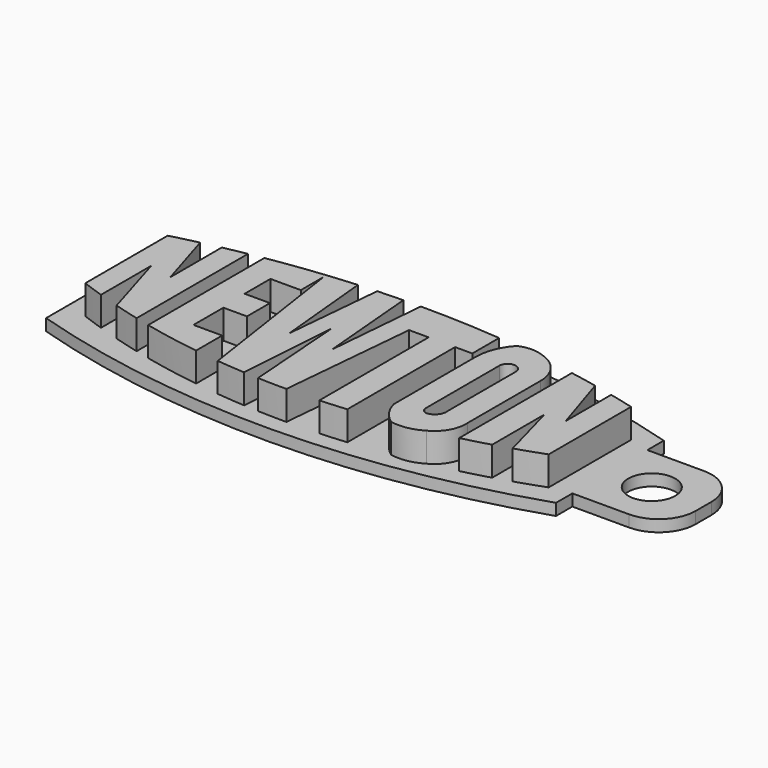
from build123d import *

# Parameters (mm, degrees)
F1_DEPTH = 5
F3_DEPTH = 2
F5_R     = 4.0386
F6_DEPTH = 2


with BuildPart() as f1:
    # F0 (on Top) → F1 (new body)
    with BuildSketch(Plane.XY):
        with BuildLine():
            ThreePointArc((-26.651348, 17.408332), (-28.98701, 16.85103), (-31.313855, 16.257994))
            Line((-31.313855, 16.257994), (-31.313855, -1.454417))
            ThreePointArc((-31.313855, -1.454417), (-29.445548, -2.127472), (-27.565881, -2.768118))
            Line((-27.565881, -2.768118), (-27.565881, 8.0386))
            Line((-27.565881, 8.0386), (-23.981268, -3.890644))
            ThreePointArc((-23.981268, -3.890644), (-21.785328, -4.515397), (-19.577401, -5.096367))
            Line((-19.577401, -5.096367), (-19.580996, 18.867471))
            ThreePointArc((-19.580996, 18.867471), (-21.536505, 18.497823), (-23.48716, 18.103362))
            Line((-23.48716, 18.103362), (-23.48716, 7.049417))
            Line((-23.48716, 7.049417), (-26.651348, 17.408332))
        make_face()
        with BuildLine():
            Line((48.388597, -1.454417), (48.388597, 16.257994))
            ThreePointArc((48.388597, 16.257994), (46.258605, 16.802327), (44.121183, 17.316716))
            Line((44.121183, 17.316716), (44.121183, 7.543997))
            Line((44.121183, 7.543997), (40.767098, 18.060365))
            ThreePointArc((40.767098, 18.060365), (38.40477, 18.538069), (36.035373, 18.979372))
            Line((36.035373, 18.979372), (36.035373, -5.250303))
            ThreePointArc((36.035373, -5.250303), (38.374392, -4.647226), (40.700207, -3.995081))
            Line((40.700207, -3.995081), (40.700207, 7.247278))
            Line((40.700207, 7.247278), (43.522989, -3.131948))
            ThreePointArc((43.522989, -3.131948), (45.965192, -2.320446), (48.388597, -1.454417))
        make_face()
        with BuildLine():
            ThreePointArc((-7.551971, 20.583244), (-12.343521, 20.013793), (-17.11526, 19.297039))
            Line((-17.11526, 19.297039), (-17.11526, -5.68932))
            ThreePointArc((-17.11526, -5.68932), (-12.30462, -6.684076), (-7.455836, -7.472168))
            Line((-7.455836, -7.472168), (-7.455836, -1.852502))
            Line((-7.455836, -1.852502), (-12.389002, -1.852502))
            Line((-12.389002, -1.852502), (-12.389002, 4.576681))
            Line((-12.389002, 4.576681), (-8.332584, 4.576681))
            Line((-8.332584, 4.576681), (-8.332584, 9.522207))
            Line((-8.332584, 9.522207), (-12.685815, 9.522207))
            Line((-12.685815, 9.522207), (-12.685815, 15.061192))
            Line((-12.685815, 15.061192), (-7.455836, 15.061192))
            Line((-7.455836, 15.061192), (-7.455836, 19.935173))
            Line((-7.455836, 19.935173), (-7.551971, 20.583244))
        make_face()
        with BuildLine():
            ThreePointArc((-7.455836, 20.59314), (-7.503905, 20.5882), (-7.551971, 20.583244))
            Line((-7.551971, 20.583244), (-7.455836, 19.935173))
            Line((-7.455836, 19.935173), (-7.455836, 20.59314))
        make_face()
        with BuildLine():
            Line((-7.455836, 20.59314), (-7.455836, 19.935173))
            Line((-7.455836, 19.935173), (-3.31518, -7.978035))
            ThreePointArc((-3.31518, -7.978035), (-0.89273, -8.203509), (1.533954, -8.377611))
            Line((1.533954, -8.377611), (2.747888, 8.928744))
            Line((2.747888, 8.928744), (4.034133, -8.503044))
            ThreePointArc((4.034133, -8.503044), (6.507916, -8.573444), (8.982641, -8.590516))
            Line((8.982641, -8.590516), (11.160356, 15.061197))
            Line((11.160356, 15.061197), (14.525345, 15.061197))
            Line((14.525345, 15.061197), (14.525345, -8.435146))
            ThreePointArc((14.525345, -8.435146), (16.803292, -8.293483), (19.077973, -8.106573))
            Line((19.077973, -8.106573), (19.077973, 15.061197))
            Line((19.077973, 15.061197), (22.041207, 15.061197))
            Line((22.041207, 15.061197), (22.041207, 20.828562))
            ThreePointArc((22.041207, 20.828562), (15.07889, 21.275037), (8.103599, 21.411077))
            Line((8.103599, 21.411077), (6.607726, 4.181039))
            Line((6.607726, 4.181039), (5.123083, 21.374465))
            ThreePointArc((5.123083, 21.374465), (2.93767, 21.311562), (0.753347, 21.218165))
            Line((0.753347, 21.218165), (-0.815041, 4.27995))
            Line((-0.815041, 4.27995), (-2.410396, 21.028664))
            ThreePointArc((-2.410396, 21.028664), (-4.934876, 20.831292), (-7.455836, 20.59314))
        make_face()
        with BuildLine():
            ThreePointArc((25.337448, 20.50822), (23.613483, 17.75595), (23.011211, 14.564663))
            Line((23.011211, 14.564663), (23.011211, -3.039429))
            ThreePointArc((23.011211, -3.039429), (24.095706, -5.410003), (25.924952, -7.267315))
            ThreePointArc((25.924952, -7.267315), (28.678591, -7.296316), (31.254217, -6.321887))
            ThreePointArc((31.254217, -6.321887), (33.502257, -4.16289), (34.178704, -1.120298))
            Line((34.178704, -1.120298), (34.178704, 14.564663))
            ThreePointArc((34.178704, 14.564663), (32.97203, 18.250105), (29.81934, 20.50822))
            ThreePointArc((29.81934, 20.50822), (27.578394, 20.977344), (25.337448, 20.50822))
        make_face()
        with BuildLine():
            Line((27.094735, -1.268663), (27.094735, 14.564663))
            ThreePointArc((27.094735, 14.564663), (28.506575, 15.976503), (29.918415, 14.564663))
            Line((29.918415, 14.564663), (29.918415, 0))
            ThreePointArc((29.918415, 0), (29.647931, -1.410752), (28.513743, -2.292226))
            ThreePointArc((28.513743, -2.292226), (27.542368, -2.143487), (27.094735, -1.268663))
        make_face(mode=Mode.SUBTRACT)
    extrude(amount=F1_DEPTH)


with BuildPart() as f3:
    # F2 (on Top) → F3 (new body)
    with BuildSketch(Plane.XY):
        with BuildLine():
            ThreePointArc((51.958822, 18.827472), (8.400722, 25.06269), (-35.087429, 18.356971))
            Line((-35.087429, 18.356971), (-35.087429, -5.168048))
            ThreePointArc((-35.087429, -5.168048), (8.499812, -11.534627), (51.958822, -4.344672))
            Line((51.958822, -4.344672), (51.958822, 18.827472))
        make_face()
    extrude(amount=-F3_DEPTH)


with BuildPart() as f1_1:
    add(f1.part)

    # F4: union F3
    add(f3.part)

    # F5 (on face) → F6 (join)
    with BuildSketch(Plane.XY):
        with BuildLine():
            Line((51.958822, 15.3059), (51.958822, 7.2414))
            Line((51.958822, 7.2414), (51.958822, -0.8231))
            Line((51.958822, -0.8231), (61.737822, -0.8231))
            ThreePointArc((61.737822, -0.8231), (66.22795, 1.036772), (68.087822, 5.5269))
            Line((68.087822, 5.5269), (68.087822, 8.9559))
            ThreePointArc((68.087822, 8.9559), (66.22795, 13.446028), (61.737822, 15.3059))
            Line((61.737822, 15.3059), (51.958822, 15.3059))
        make_face()
        with Locations((59.165195, 7.2414)):
            Circle(F5_R, mode=Mode.SUBTRACT)
    extrude(amount=-F6_DEPTH)


solid = f1_1.part
